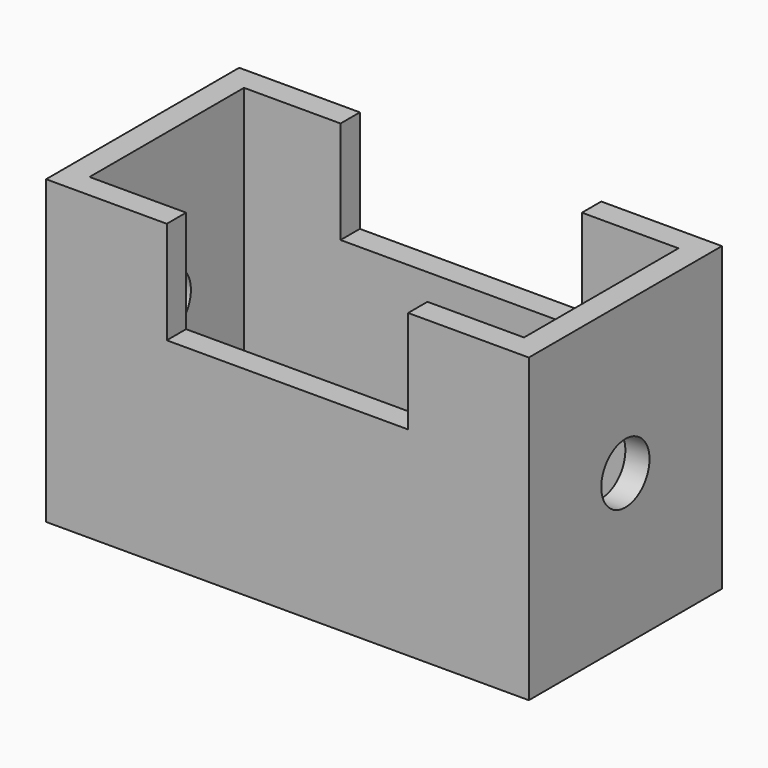
from build123d import *

# Parameters (mm, degrees)
F0_W     = 101.6
F0_H     = 63.5
F1_DEPTH = 50.8
F2_W     = 50.8
F2_H     = 21.59
F3_DEPTH = 70.866
F4_W     = 91.44
F4_H     = 40.64
F5_DEPTH = 71.628
F6_R     = 6.35
F7_DEPTH = 111.506


with BuildPart() as f1:
    # F0 (on Front) → F1 (new body)
    with BuildSketch(Plane.XZ):
        Rectangle(F0_W, F0_H)
    extrude(amount=F1_DEPTH)

    # F2 (on face) → F3 (cut)
    with BuildSketch(Plane.XZ.offset(50.8)):
        with Locations((0, 20.955)):
            Rectangle(F2_W, F2_H)
    extrude(amount=-F3_DEPTH, mode=Mode.SUBTRACT)

    # F4 (on face) → F5 (cut)
    with BuildSketch(Plane.XY.offset(31.75)):
        with Locations((0, -25.4)):
            Rectangle(F4_W, F4_H)
    extrude(amount=-F5_DEPTH, mode=Mode.SUBTRACT)

    # F6 (on face) → F7 (cut)
    with BuildSketch(Plane.YZ.offset(50.8)):
        with Locations((-25.4, 0)):
            Circle(F6_R)
    extrude(amount=-F7_DEPTH, mode=Mode.SUBTRACT)


solid = f1.part
